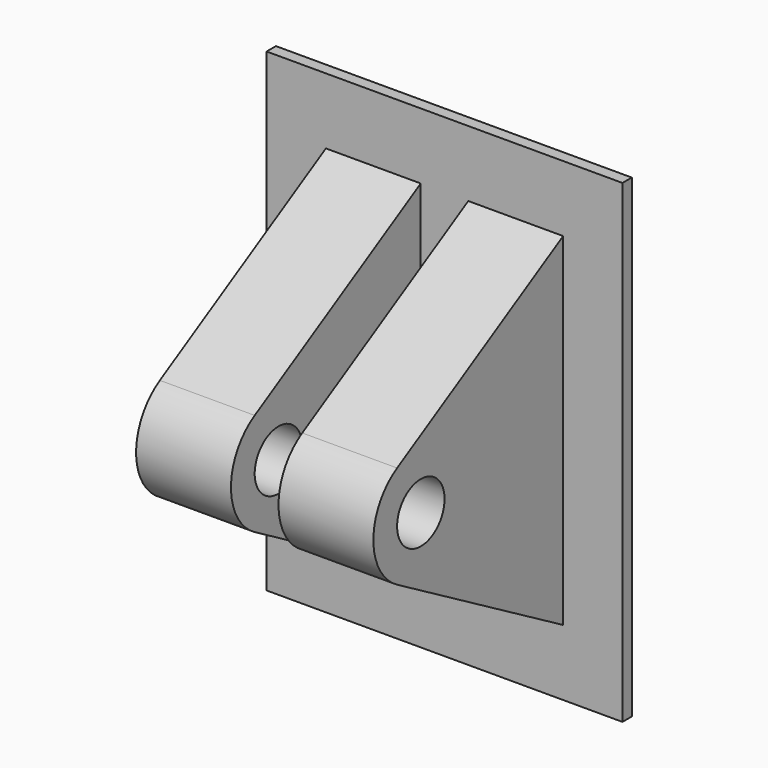
from build123d import *

# Parameters (mm, degrees)
F0_W     = 76.2
F0_H     = 101.6
F1_DEPTH = 2.5
F2_R     = 6.35
F3_DEPTH = 25.4
F4_W     = 10.178574
F4_H     = 98.918622
F5_DEPTH = 75.946


with BuildPart() as f1:
    # F0 (on Front) → F1 (new body)
    with BuildSketch(Plane.XZ):
        Rectangle(F0_W, F0_H)
    extrude(amount=F1_DEPTH)

    # F2 (on Right) → F3 (join, symmetric)
    with BuildSketch(Plane.YZ):
        with BuildLine():
            Line((-46.941136, -10.998523), (0, -38.1))
            Line((0, -38.1), (0, 38.1))
            Line((0, 38.1), (-46.941136, 10.998523))
            ThreePointArc((-46.941136, 10.998523), (-53.291136, 0), (-46.941136, -10.998523))
        make_face()
        with Locations((-40.591136, 0)):
            Circle(F2_R, mode=Mode.SUBTRACT)
    extrude(amount=F3_DEPTH, both=True)

    # F4 (on Top) → F5 (cut, symmetric)
    with BuildSketch(Plane.XY):
        with Locations((0, -51.959311)):
            Rectangle(F4_W, F4_H)
    extrude(amount=F5_DEPTH, both=True, mode=Mode.SUBTRACT)


solid = f1.part
